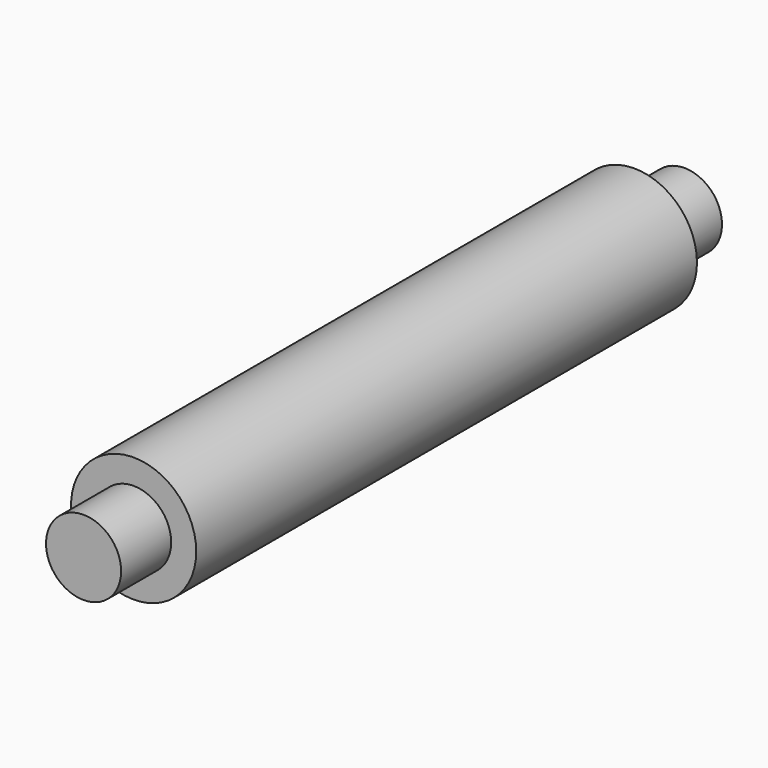
from build123d import *

# Parameters (mm, degrees)
F0_W     = 10
F0_H     = 100
F2_R     = 6
F3_DEPTH = 10
F4_R     = 6
F5_DEPTH = 10


with BuildPart() as f1:
    # F0 (on Top) → F1 (revolve)
    with BuildSketch(Plane.XY):
        with Locations((5, 50)):
            Rectangle(F0_W, F0_H)
    revolve(axis=Axis((0, 50, 0), (0, 1, 0)))

    # F2 (on Front) → F3 (join)
    with BuildSketch(Plane.XZ):
        Circle(F2_R)
    extrude(amount=F3_DEPTH)

    # F4 (on face) → F5 (join)
    with BuildSketch(Plane(origin=(0, 100, 0), x_dir=(-1, 0, 0), z_dir=(0, 1, 0))):
        Circle(F4_R)
    extrude(amount=F5_DEPTH)


solid = f1.part
